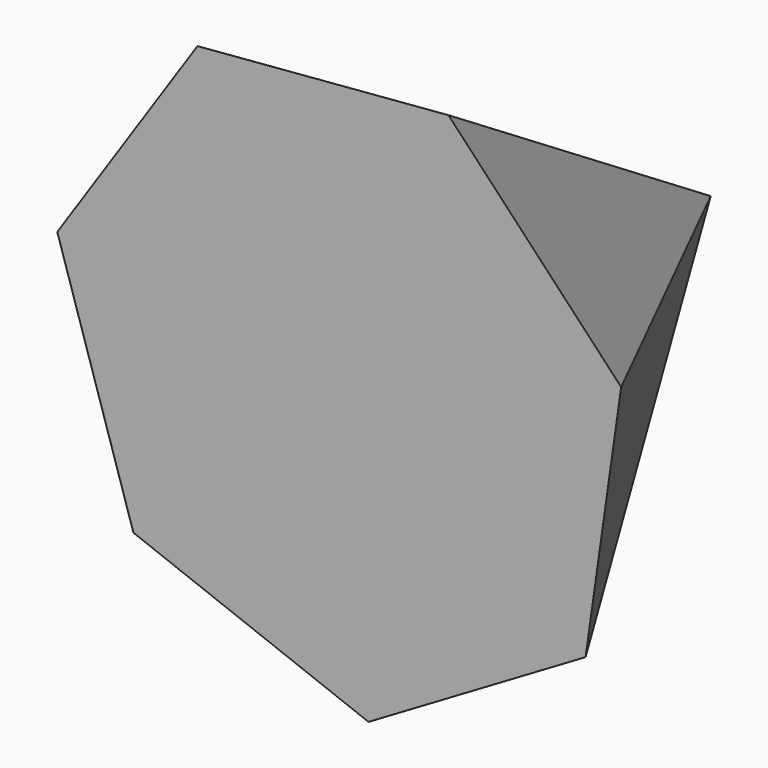
from build123d import *


with BuildPart() as f3:
    # F0 (on Front) → F3 section 0
    with BuildSketch(Plane.XZ, mode=Mode.PRIVATE) as f3_s0:
        Polygon((22.694931, 59.195888), (-32.13115, 54.651644), (-62.76182, 8.953598), (-46.13156, -43.48669), (5.236706, -63.180614), (52.661626, -35.298246), (60.431267, 19.16442), align=None)
    loft([f3_s0.sketch, Vertex(0, 100, -4.40801)])


solid = f3.part
